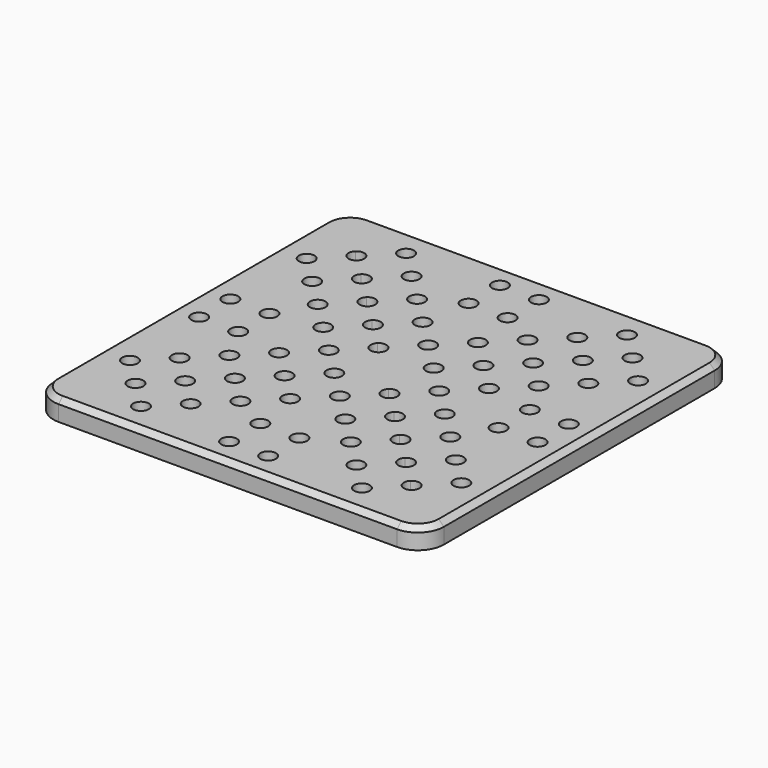
from build123d import *

# Parameters (mm, degrees)
F0_R     = 3
F1_DEPTH = 8
F2_R     = 10
F3_SIZE  = 2
F4_D     = 6
F4_DEPTH = 6
F4_TIP   = 1.8025818571


with BuildPart() as f1:
    # F0 (on Top) → F1 (new body)
    with BuildSketch(Plane.XY):
        with BuildLine():
            Line((55.1543289326, 55.1543289326), (75, 75))
            Line((75, 75), (-75, 75))
            Line((-75, 75), (-55.1543289326, 55.1543289326))
            ThreePointArc((-55.1543289326, 55.1543289326), (-51.8849582919, 55.8046471865), (-50.033008589, 53.033008589))
            ThreePointArc((-50.033008589, 53.033008589), (-50.2613699915, 51.8849582919), (-50.9116882454, 50.9116882454))
            Line((-50.9116882454, 50.9116882454), (-44.5477272148, 44.5477272148))
            ThreePointArc((-44.5477272148, 44.5477272148), (-41.2783565741, 45.1980454687), (-39.4264068712, 42.4264068712))
            ThreePointArc((-39.4264068712, 42.4264068712), (-39.6547682737, 41.2783565741), (-40.3050865276, 40.3050865276))
            Line((-40.3050865276, 40.3050865276), (-33.941125497, 33.941125497))
            ThreePointArc((-33.941125497, 33.941125497), (-30.6717548563, 34.5914437509), (-28.8198051534, 31.8198051534))
            ThreePointArc((-28.8198051534, 31.8198051534), (-29.0481665559, 30.6717548563), (-29.6984848098, 29.6984848098))
            Line((-29.6984848098, 29.6984848098), (-23.3345237792, 23.3345237792))
            ThreePointArc((-23.3345237792, 23.3345237792), (-20.0651531385, 23.9848420331), (-18.2132034356, 21.2132034356))
            ThreePointArc((-18.2132034356, 21.2132034356), (-18.4415648381, 20.0651531385), (-19.091883092, 19.091883092))
            Line((-19.091883092, 19.091883092), (-12.7279220614, 12.7279220614))
            ThreePointArc((-12.7279220614, 12.7279220614), (-9.4585514207, 13.3782403153), (-7.6066017178, 10.6066017178))
            ThreePointArc((-7.6066017178, 10.6066017178), (-7.8349631203, 9.4585514207), (-8.4852813742, 8.4852813742))
            Line((-8.4852813742, 8.4852813742), (0, 0))
            Line((0, 0), (8.4852813742, 8.4852813742))
            ThreePointArc((8.4852813742, 8.4852813742), (8.4852813742, 12.7279220614), (12.7279220614, 12.7279220614))
            Line((12.7279220614, 12.7279220614), (19.091883092, 19.091883092))
            ThreePointArc((19.091883092, 19.091883092), (19.091883092, 23.3345237792), (23.3345237792, 23.3345237792))
            Line((23.3345237792, 23.3345237792), (29.6984848098, 29.6984848098))
            ThreePointArc((29.6984848098, 29.6984848098), (29.6984848098, 33.941125497), (33.941125497, 33.941125497))
            Line((33.941125497, 33.941125497), (40.3050865276, 40.3050865276))
            ThreePointArc((40.3050865276, 40.3050865276), (40.3050865276, 44.5477272148), (44.5477272148, 44.5477272148))
            Line((44.5477272148, 44.5477272148), (50.9116882454, 50.9116882454))
            ThreePointArc((50.9116882454, 50.9116882454), (50.9116882454, 55.1543289326), (55.1543289326, 55.1543289326))
        make_face()
        with Locations((-10.6066017178, 31.8198051534)):
            Circle(F0_R, mode=Mode.SUBTRACT)
        with Locations((-42.4264068712, 63.6396103068)):
            Circle(F0_R, mode=Mode.SUBTRACT)
        with Locations((-21.2132034356, 42.4264068712)):
            Circle(F0_R, mode=Mode.SUBTRACT)
        with Locations((-31.8198051534, 53.033008589)):
            Circle(F0_R, mode=Mode.SUBTRACT)
        with Locations((-7.5, 50)):
            Circle(F0_R, mode=Mode.SUBTRACT)
        with Locations((-7.5, 65)):
            Circle(F0_R, mode=Mode.SUBTRACT)
        with Locations((0, 21.2132034356)):
            Circle(F0_R, mode=Mode.SUBTRACT)
        with Locations((10.6066017178, 31.8198051534)):
            Circle(F0_R, mode=Mode.SUBTRACT)
        with Locations((7.5, 50)):
            Circle(F0_R, mode=Mode.SUBTRACT)
        with Locations((21.2132034356, 42.4264068712)):
            Circle(F0_R, mode=Mode.SUBTRACT)
        with Locations((31.8198051534, 53.033008589)):
            Circle(F0_R, mode=Mode.SUBTRACT)
        with Locations((7.5, 65)):
            Circle(F0_R, mode=Mode.SUBTRACT)
        with Locations((42.4264068712, 63.6396103068)):
            Circle(F0_R, mode=Mode.SUBTRACT)
        with BuildLine():
            Line((75, -75), (75, 75))
            Line((75, 75), (55.1543289326, 55.1543289326))
            ThreePointArc((55.1543289326, 55.1543289326), (55.8046471865, 54.1810588861), (56.033008589, 53.033008589))
            ThreePointArc((56.033008589, 53.033008589), (54.1810588861, 50.2613699915), (50.9116882454, 50.9116882454))
            Line((50.9116882454, 50.9116882454), (44.5477272148, 44.5477272148))
            ThreePointArc((44.5477272148, 44.5477272148), (45.1980454687, 43.5744571683), (45.4264068712, 42.4264068712))
            ThreePointArc((45.4264068712, 42.4264068712), (43.5744571683, 39.6547682737), (40.3050865276, 40.3050865276))
            Line((40.3050865276, 40.3050865276), (33.941125497, 33.941125497))
            ThreePointArc((33.941125497, 33.941125497), (34.5914437509, 32.9678554505), (34.8198051534, 31.8198051534))
            ThreePointArc((34.8198051534, 31.8198051534), (32.9678554505, 29.0481665559), (29.6984848098, 29.6984848098))
            Line((29.6984848098, 29.6984848098), (23.3345237792, 23.3345237792))
            ThreePointArc((23.3345237792, 23.3345237792), (23.9848420331, 22.3612537327), (24.2132034356, 21.2132034356))
            ThreePointArc((24.2132034356, 21.2132034356), (22.3612537327, 18.4415648381), (19.091883092, 19.091883092))
            Line((19.091883092, 19.091883092), (12.7279220614, 12.7279220614))
            ThreePointArc((12.7279220614, 12.7279220614), (13.3782403153, 11.7546520149), (13.6066017178, 10.6066017178))
            ThreePointArc((13.6066017178, 10.6066017178), (11.7546520149, 7.8349631203), (8.4852813742, 8.4852813742))
            Line((8.4852813742, 8.4852813742), (0, 0))
            Line((0, 0), (8.4852813742, -8.4852813742))
            ThreePointArc((8.4852813742, -8.4852813742), (11.7546520149, -7.8349631203), (13.6066017178, -10.6066017178))
            ThreePointArc((13.6066017178, -10.6066017178), (13.3782403153, -11.7546520149), (12.7279220614, -12.7279220614))
            Line((12.7279220614, -12.7279220614), (19.091883092, -19.091883092))
            ThreePointArc((19.091883092, -19.091883092), (22.3612537327, -18.4415648381), (24.2132034356, -21.2132034356))
            ThreePointArc((24.2132034356, -21.2132034356), (23.9848420331, -22.3612537327), (23.3345237792, -23.3345237792))
            Line((23.3345237792, -23.3345237792), (29.6984848098, -29.6984848098))
            ThreePointArc((29.6984848098, -29.6984848098), (32.9678554505, -29.0481665559), (34.8198051534, -31.8198051534))
            ThreePointArc((34.8198051534, -31.8198051534), (34.5914437509, -32.9678554505), (33.941125497, -33.941125497))
            Line((33.941125497, -33.941125497), (40.3050865276, -40.3050865276))
            ThreePointArc((40.3050865276, -40.3050865276), (43.5744571683, -39.6547682737), (45.4264068712, -42.4264068712))
            ThreePointArc((45.4264068712, -42.4264068712), (45.1980454687, -43.5744571683), (44.5477272148, -44.5477272148))
            Line((44.5477272148, -44.5477272148), (50.9116882454, -50.9116882454))
            ThreePointArc((50.9116882454, -50.9116882454), (54.1810588861, -50.2613699915), (56.033008589, -53.033008589))
            ThreePointArc((56.033008589, -53.033008589), (55.8046471865, -54.1810588861), (55.1543289326, -55.1543289326))
            Line((55.1543289326, -55.1543289326), (75, -75))
        make_face()
        with Locations((63.6396103068, -42.4264068712)):
            Circle(F0_R, mode=Mode.SUBTRACT)
        with Locations((31.8198051534, -10.6066017178)):
            Circle(F0_R, mode=Mode.SUBTRACT)
        with Locations((53.033008589, -31.8198051534)):
            Circle(F0_R, mode=Mode.SUBTRACT)
        with Locations((42.4264068712, -21.2132034356)):
            Circle(F0_R, mode=Mode.SUBTRACT)
        with Locations((50, -7.5)):
            Circle(F0_R, mode=Mode.SUBTRACT)
        with Locations((65, -7.5)):
            Circle(F0_R, mode=Mode.SUBTRACT)
        with Locations((21.2132034356, 0)):
            Circle(F0_R, mode=Mode.SUBTRACT)
        with Locations((31.8198051534, 10.6066017178)):
            Circle(F0_R, mode=Mode.SUBTRACT)
        with Locations((50, 7.5)):
            Circle(F0_R, mode=Mode.SUBTRACT)
        with Locations((65, 7.5)):
            Circle(F0_R, mode=Mode.SUBTRACT)
        with Locations((42.4264068712, 21.2132034356)):
            Circle(F0_R, mode=Mode.SUBTRACT)
        with Locations((53.033008589, 31.8198051534)):
            Circle(F0_R, mode=Mode.SUBTRACT)
        with Locations((63.6396103068, 42.4264068712)):
            Circle(F0_R, mode=Mode.SUBTRACT)
        with BuildLine():
            Line((-55.1543289326, 55.1543289326), (-75, 75))
            Line((-75, 75), (-75, -75))
            Line((-75, -75), (-55.1543289326, -55.1543289326))
            ThreePointArc((-55.1543289326, -55.1543289326), (-55.1543289326, -50.9116882454), (-50.9116882454, -50.9116882454))
            Line((-50.9116882454, -50.9116882454), (-44.5477272148, -44.5477272148))
            ThreePointArc((-44.5477272148, -44.5477272148), (-44.5477272148, -40.3050865276), (-40.3050865276, -40.3050865276))
            Line((-40.3050865276, -40.3050865276), (-33.941125497, -33.941125497))
            ThreePointArc((-33.941125497, -33.941125497), (-33.941125497, -29.6984848098), (-29.6984848098, -29.6984848098))
            Line((-29.6984848098, -29.6984848098), (-23.3345237792, -23.3345237792))
            ThreePointArc((-23.3345237792, -23.3345237792), (-23.3345237792, -19.091883092), (-19.091883092, -19.091883092))
            Line((-19.091883092, -19.091883092), (-12.7279220614, -12.7279220614))
            ThreePointArc((-12.7279220614, -12.7279220614), (-12.7279220614, -8.4852813742), (-8.4852813742, -8.4852813742))
            Line((-8.4852813742, -8.4852813742), (0, 0))
            Line((0, 0), (-8.4852813742, 8.4852813742))
            ThreePointArc((-8.4852813742, 8.4852813742), (-12.7279220614, 8.4852813742), (-12.7279220614, 12.7279220614))
            Line((-12.7279220614, 12.7279220614), (-19.091883092, 19.091883092))
            ThreePointArc((-19.091883092, 19.091883092), (-23.3345237792, 19.091883092), (-23.3345237792, 23.3345237792))
            Line((-23.3345237792, 23.3345237792), (-29.6984848098, 29.6984848098))
            ThreePointArc((-29.6984848098, 29.6984848098), (-33.941125497, 29.6984848098), (-33.941125497, 33.941125497))
            Line((-33.941125497, 33.941125497), (-40.3050865276, 40.3050865276))
            ThreePointArc((-40.3050865276, 40.3050865276), (-44.5477272148, 40.3050865276), (-44.5477272148, 44.5477272148))
            Line((-44.5477272148, 44.5477272148), (-50.9116882454, 50.9116882454))
            ThreePointArc((-50.9116882454, 50.9116882454), (-55.1543289326, 50.9116882454), (-55.1543289326, 55.1543289326))
        make_face()
        with Locations((-63.6396103068, -42.4264068712)):
            Circle(F0_R, mode=Mode.SUBTRACT)
        with Locations((-53.033008589, -31.8198051534)):
            Circle(F0_R, mode=Mode.SUBTRACT)
        with Locations((-42.4264068712, -21.2132034356)):
            Circle(F0_R, mode=Mode.SUBTRACT)
        with Locations((-65, -7.5)):
            Circle(F0_R, mode=Mode.SUBTRACT)
        with Locations((-50, -7.5)):
            Circle(F0_R, mode=Mode.SUBTRACT)
        with Locations((-31.8198051534, -10.6066017178)):
            Circle(F0_R, mode=Mode.SUBTRACT)
        with Locations((-65, 7.5)):
            Circle(F0_R, mode=Mode.SUBTRACT)
        with Locations((-50, 7.5)):
            Circle(F0_R, mode=Mode.SUBTRACT)
        with Locations((-42.4264068712, 21.2132034356)):
            Circle(F0_R, mode=Mode.SUBTRACT)
        with Locations((-53.033008589, 31.8198051534)):
            Circle(F0_R, mode=Mode.SUBTRACT)
        with Locations((-21.2132034356, 0)):
            Circle(F0_R, mode=Mode.SUBTRACT)
        with Locations((-31.8198051534, 10.6066017178)):
            Circle(F0_R, mode=Mode.SUBTRACT)
        with Locations((-63.6396103068, 42.4264068712)):
            Circle(F0_R, mode=Mode.SUBTRACT)
        with BuildLine():
            Line((-75, -75), (75, -75))
            Line((75, -75), (55.1543289326, -55.1543289326))
            ThreePointArc((55.1543289326, -55.1543289326), (50.9116882454, -55.1543289326), (50.9116882454, -50.9116882454))
            Line((50.9116882454, -50.9116882454), (44.5477272148, -44.5477272148))
            ThreePointArc((44.5477272148, -44.5477272148), (40.3050865276, -44.5477272148), (40.3050865276, -40.3050865276))
            Line((40.3050865276, -40.3050865276), (33.941125497, -33.941125497))
            ThreePointArc((33.941125497, -33.941125497), (29.6984848098, -33.941125497), (29.6984848098, -29.6984848098))
            Line((29.6984848098, -29.6984848098), (23.3345237792, -23.3345237792))
            ThreePointArc((23.3345237792, -23.3345237792), (19.091883092, -23.3345237792), (19.091883092, -19.091883092))
            Line((19.091883092, -19.091883092), (12.7279220614, -12.7279220614))
            ThreePointArc((12.7279220614, -12.7279220614), (8.4852813742, -12.7279220614), (8.4852813742, -8.4852813742))
            Line((8.4852813742, -8.4852813742), (0, 0))
            Line((0, 0), (-8.4852813742, -8.4852813742))
            ThreePointArc((-8.4852813742, -8.4852813742), (-7.8349631203, -9.4585514207), (-7.6066017178, -10.6066017178))
            ThreePointArc((-7.6066017178, -10.6066017178), (-9.4585514207, -13.3782403153), (-12.7279220614, -12.7279220614))
            Line((-12.7279220614, -12.7279220614), (-19.091883092, -19.091883092))
            ThreePointArc((-19.091883092, -19.091883092), (-18.4415648381, -20.0651531385), (-18.2132034356, -21.2132034356))
            ThreePointArc((-18.2132034356, -21.2132034356), (-20.0651531385, -23.9848420331), (-23.3345237792, -23.3345237792))
            Line((-23.3345237792, -23.3345237792), (-29.6984848098, -29.6984848098))
            ThreePointArc((-29.6984848098, -29.6984848098), (-29.0481665559, -30.6717548563), (-28.8198051534, -31.8198051534))
            ThreePointArc((-28.8198051534, -31.8198051534), (-30.6717548563, -34.5914437509), (-33.941125497, -33.941125497))
            Line((-33.941125497, -33.941125497), (-40.3050865276, -40.3050865276))
            ThreePointArc((-40.3050865276, -40.3050865276), (-39.6547682737, -41.2783565741), (-39.4264068712, -42.4264068712))
            ThreePointArc((-39.4264068712, -42.4264068712), (-41.2783565741, -45.1980454687), (-44.5477272148, -44.5477272148))
            Line((-44.5477272148, -44.5477272148), (-50.9116882454, -50.9116882454))
            ThreePointArc((-50.9116882454, -50.9116882454), (-50.2613699915, -51.8849582919), (-50.033008589, -53.033008589))
            ThreePointArc((-50.033008589, -53.033008589), (-51.8849582919, -55.8046471865), (-55.1543289326, -55.1543289326))
            Line((-55.1543289326, -55.1543289326), (-75, -75))
        make_face()
        with Locations((-42.4264068712, -63.6396103068)):
            Circle(F0_R, mode=Mode.SUBTRACT)
        with Locations((-7.5, -65)):
            Circle(F0_R, mode=Mode.SUBTRACT)
        with Locations((-31.8198051534, -53.033008589)):
            Circle(F0_R, mode=Mode.SUBTRACT)
        with Locations((-21.2132034356, -42.4264068712)):
            Circle(F0_R, mode=Mode.SUBTRACT)
        with Locations((-7.5, -50)):
            Circle(F0_R, mode=Mode.SUBTRACT)
        with Locations((-10.6066017178, -31.8198051534)):
            Circle(F0_R, mode=Mode.SUBTRACT)
        with Locations((7.5, -65)):
            Circle(F0_R, mode=Mode.SUBTRACT)
        with Locations((7.5, -50)):
            Circle(F0_R, mode=Mode.SUBTRACT)
        with Locations((31.8198051534, -53.033008589)):
            Circle(F0_R, mode=Mode.SUBTRACT)
        with Locations((21.2132034356, -42.4264068712)):
            Circle(F0_R, mode=Mode.SUBTRACT)
        with Locations((42.4264068712, -63.6396103068)):
            Circle(F0_R, mode=Mode.SUBTRACT)
        with Locations((10.6066017178, -31.8198051534)):
            Circle(F0_R, mode=Mode.SUBTRACT)
        with Locations((0, -21.2132034356)):
            Circle(F0_R, mode=Mode.SUBTRACT)
    extrude(amount=F1_DEPTH)

    # F2
    f2_edges = [f1.edges().sort_by_distance(p)[0] for p in [
        (-75, -75, 4),
        (-75, 75, 4),
        (75, 75, 4),
        (75, -75, 4),
    ]]
    fillet(f2_edges, radius=F2_R)

    # F3
    f3_edges = [f1.edges().sort_by_distance(p)[0] for p in [
        (-72.071068, -72.071068, 8),
    ]]
    chamfer(f3_edges, length=F3_SIZE)

    # F4
    with Locations(Plane(origin=(0, 0, 0), x_dir=(1, 0, 0), z_dir=(0, 0, -1))):
        with Locations((0, 0)):
            Hole(F4_D / 2, depth=F4_DEPTH)
            with Locations((0, 0, -(F4_DEPTH + F4_TIP / 2))):  # 118° drill point
                Cone(0, F4_D / 2, F4_TIP, mode=Mode.SUBTRACT)


solid = f1.part
